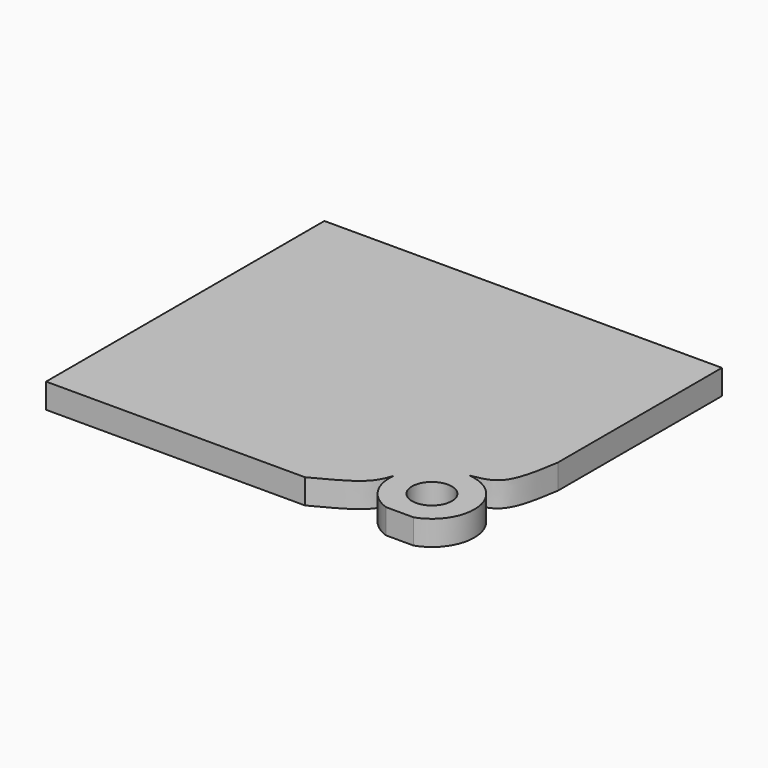
from build123d import *

# Parameters (mm, degrees)
F0_W     = 400
F0_H     = 350
F1_DEPTH = 25
F3_DEPTH = 25.001
F4_DEPTH = 25.0010001
F2_R     = 20.0519233488
F5_DEPTH = 25.0010001


with BuildPart() as f1:
    # F0 (on Top) → F1 (new body)
    with BuildSketch(Plane.XY):
        with Locations((-144.6653090417, 142.9641239345)):
            Rectangle(F0_W, F0_H)
    extrude(amount=F1_DEPTH)

    # F2 (on face) → F3 (cut, through all)
    with BuildSketch(Plane.XY.offset(25)):
        with BuildLine():
            ThreePointArc((14.6728275564, 50.9421979835), (42.6369617116, 37.3287987877), (53.9587082521, 8.3609633148))
            ThreePointArc((53.9587082521, 8.3609633148), (46.0135328545, -16.4523625465), (25.1333734011, -32.0358760655))
            Line((25.1333734011, -32.0358760655), (55.3346909583, -32.0358760655))
            Line((55.3346909583, -32.0358760655), (55.3346909583, 111.5844994783))
            add(Edge.make_bspline(
                [(14.6728275564, 50.9421979835), (24.0249471422, 52.4532118897), (46.4627784533, 56.0993989243), (52.0670924126, 91.1428923077), (55.3346909583, 111.5844994783)],
                knots=[0, 0, 0, 0, 0.4167837217, 1, 1, 1, 1], degree=3))
        make_face()
    extrude(amount=-F3_DEPTH, mode=Mode.SUBTRACT)

    # F2 (on face) → F4 (cut, through all)
    with BuildSketch(Plane.XY.offset(25)):
        with BuildLine():
            ThreePointArc((-2.6548450803, -32.0358760655), (-24.7946762396, -14.5847561717), (-31.242761182, 12.8585656004))
            add(Edge.make_bspline(
                [(-31.242761182, 12.8585656004), (-33.4655953482, 6.747804549), (-39.2217861607, -8.8798649), (-67.1567385689, -23.2725037808), (-84.1938108206, -32.0358760655)],
                knots=[0, 0, 0, 0, 0.3906074154, 1, 1, 1, 1], degree=3))
            Line((-84.1938108206, -32.0358760655), (-2.6548450803, -32.0358760655))
        make_face()
    extrude(amount=-F4_DEPTH, mode=Mode.SUBTRACT)

    # F2 (on face) → F5 (cut, through all)
    with BuildSketch(Plane.XY.offset(25)):
        with Locations((11.2392641604, 8.3609633148)):
            Circle(F2_R)
    extrude(amount=-F5_DEPTH, mode=Mode.SUBTRACT)


solid = f1.part
